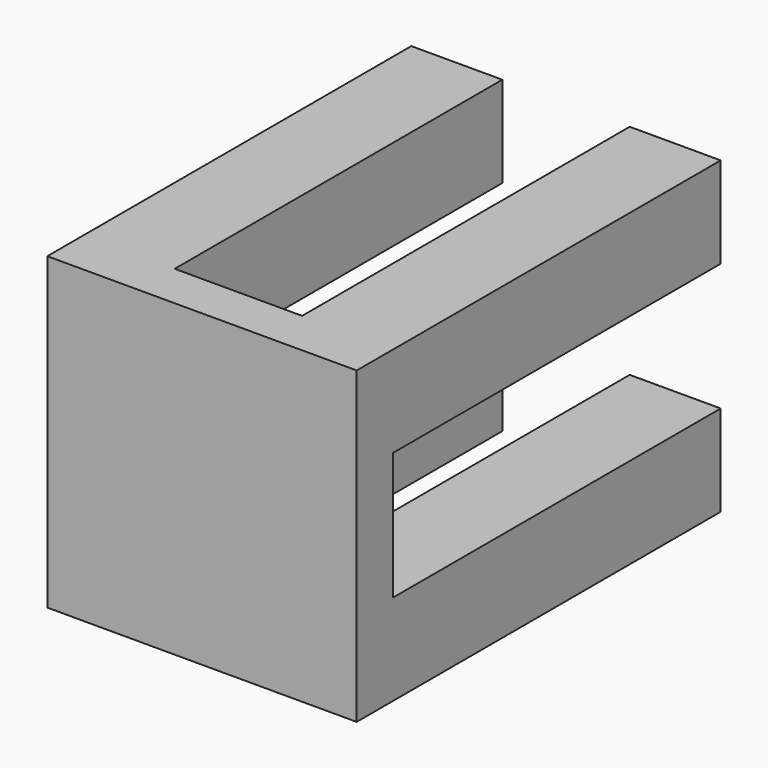
from build123d import *

# Parameters (mm, degrees)
F1_DEPTH = 6.35
F2_W     = 12.7
F2_H     = 12.7
F3_DEPTH = 63.5


with BuildPart() as f1:
    # F0 (on Front) → F1 (new body)
    with BuildSketch(Plane.XZ):
        Polygon((-110.001205, 23.946989), (-118.891205, 23.946989), (-118.891205, 11.246989), (-131.591205, 11.246989), (-131.591205, -6.533011), (-118.891205, -6.533011), (-118.891205, -19.233011), (-110.001205, -19.233011), (-101.111205, -19.233011), (-101.111205, -6.533011), (-88.411205, -6.533011), (-88.411205, 11.246989), (-101.111205, 11.246989), (-101.111205, 23.946989), align=None)
    extrude(amount=F1_DEPTH)

    # F2 (on face) → F3 (join)
    with BuildSketch(Plane.XZ.offset(6.35)):
        with Locations((-125.241205, 17.596989)):
            Rectangle(F2_W, F2_H)
        with Locations((-94.761205, 17.596989)):
            Rectangle(F2_W, F2_H)
        with Locations((-94.761205, -12.883011)):
            Rectangle(F2_W, F2_H)
        with Locations((-125.241205, -12.883011)):
            Rectangle(F2_W, F2_H)
    extrude(amount=-F3_DEPTH)


solid = f1.part
